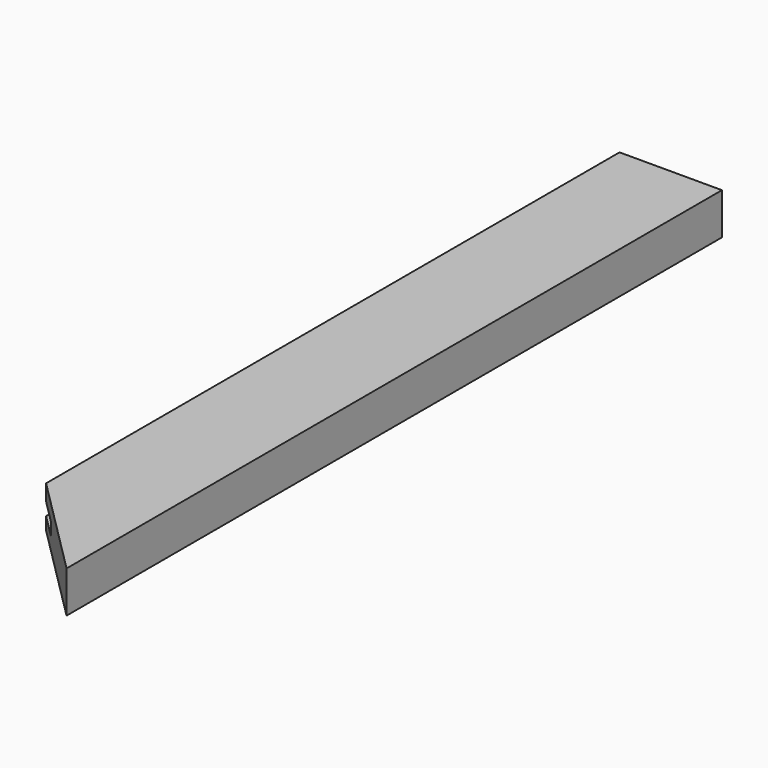
from build123d import *

# Parameters (mm, degrees)
F1_DEPTH = 20.6375
F2_W     = 12.7
F2_H     = 6.35
F3_DEPTH = 406.401


with BuildPart() as f1:
    # F0 (on Top) → F1 (new body)
    with BuildSketch(Plane.XY):
        Polygon((0, 406.4), (0, 50.8), (50.8, 0), (50.8, 406.4), align=None)
    extrude(amount=F1_DEPTH)

    # F2 (on face) → F3 (cut, through all)
    with BuildSketch(Plane(origin=(0, 406.4, 0), x_dir=(-1, 0, 0), z_dir=(0, 1, 0))):
        with Locations((-6.35, 9.525)):
            Rectangle(F2_W, F2_H)
    extrude(amount=-F3_DEPTH, mode=Mode.SUBTRACT)


solid = f1.part
